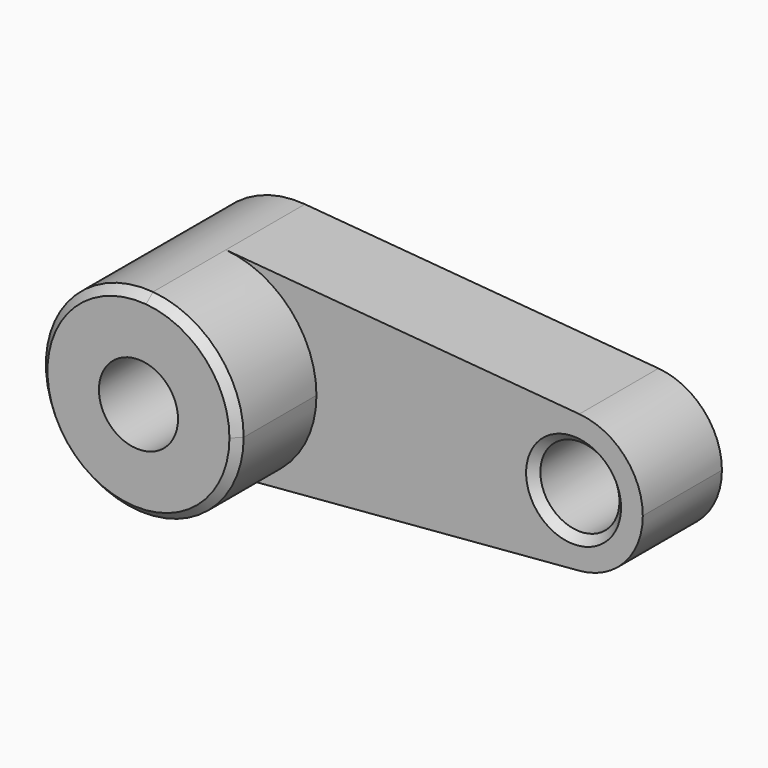
from build123d import *

# Parameters (mm, degrees)
F0_R     = 10
F1_DEPTH = 25
F2_DEPTH = 50
F3_SIZE  = 2


with BuildPart() as f1:
    # F0 (on Front) → F1 (new body)
    with BuildSketch(Plane.XZ):
        with BuildLine():
            ThreePointArc((2.083333, 24.913043), (-25, 0), (2.083333, -24.913043))
            ThreePointArc((2.083333, -24.913043), (18.399502, -16.92508), (25, 0))
            ThreePointArc((25, 0), (18.399502, 16.92508), (2.083333, 24.913043))
        make_face()
        Circle(F0_R, mode=Mode.SUBTRACT)
        with BuildLine():
            ThreePointArc((25, 0), (18.399502, -16.92508), (2.083333, -24.913043))
            Line((2.083333, -24.913043), (91.458333, -17.43913))
            ThreePointArc((91.458333, -17.43913), (72.5, 0), (91.458333, 17.43913))
            Line((91.458333, 17.43913), (2.083333, 24.913043))
            ThreePointArc((2.083333, 24.913043), (18.399502, 16.92508), (25, 0))
        make_face()
        with BuildLine():
            ThreePointArc((91.458333, 17.43913), (72.5, 0), (91.458333, -17.43913))
            ThreePointArc((91.458333, -17.43913), (102.879651, -11.847556), (107.5, 0))
            ThreePointArc((107.5, 0), (102.879651, 11.847556), (91.458333, 17.43913))
        make_face()
        with Locations((90, 0)):
            Circle(F0_R, mode=Mode.SUBTRACT)
    extrude(amount=F1_DEPTH)

    # F0 (on Front) → F2 (join)
    with BuildSketch(Plane.XZ):
        with BuildLine():
            ThreePointArc((2.083333, 24.913043), (-25, 0), (2.083333, -24.913043))
            ThreePointArc((2.083333, -24.913043), (18.399502, -16.92508), (25, 0))
            ThreePointArc((25, 0), (18.399502, 16.92508), (2.083333, 24.913043))
        make_face()
        Circle(F0_R, mode=Mode.SUBTRACT)
    extrude(amount=F2_DEPTH)

    # F3
    f3_edges = [f1.edges().sort_by_distance(p)[0] for p in [
        (-2.083333, -50, 24.913043),
        (80, -25, 0),
    ]]
    chamfer(f3_edges, length=F3_SIZE)


solid = f1.part
